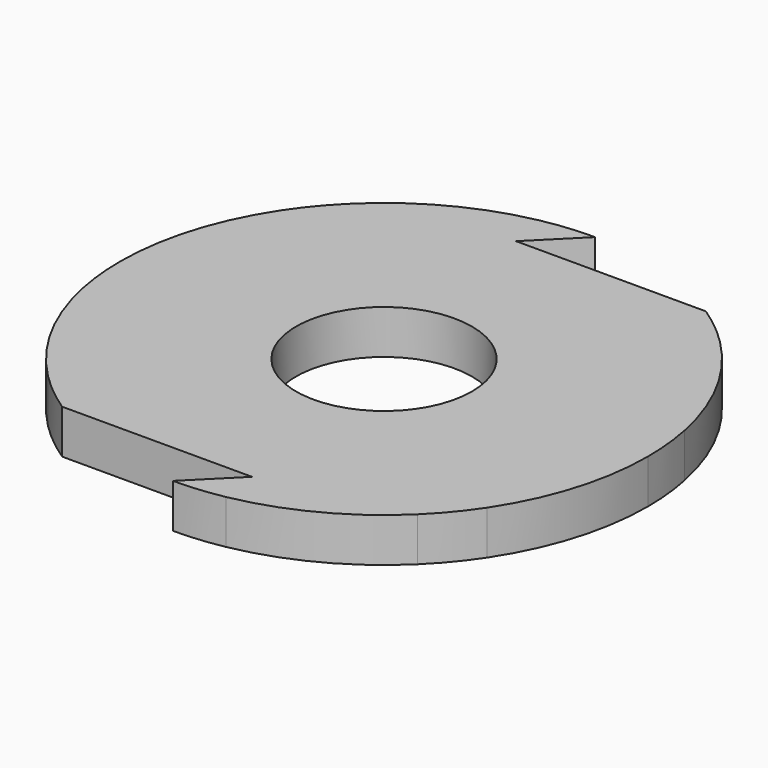
from build123d import *

# Parameters (mm, degrees)
F0_R     = 12.7
F1_DEPTH = 6.35


with BuildPart() as f1:
    # F0 (on Top) → F1 (new body)
    with BuildSketch(Plane.XY):
        with BuildLine():
            Line((22.45064, 22.45064), (37.34271, 7.55857))
            ThreePointArc((37.34271, 7.55857), (33.570952, 18.016692), (26.940768, 26.940768))
            Line((26.940768, 26.940768), (17.960512, 26.940768))
            Line((17.960512, 26.940768), (22.45064, 22.45064))
        make_face()
        with BuildLine():
            ThreePointArc((-37.34271, -7.55857), (-33.570952, -18.016692), (-26.940768, -26.940768))
            Line((-26.940768, -26.940768), (-17.960512, -26.940768))
            Line((-17.960512, -26.940768), (-22.45064, -22.45064))
            Line((-22.45064, -22.45064), (-37.34271, -7.55857))
        make_face()
        with BuildLine():
            ThreePointArc((7.159566, -37.421259), (17.657349, -33.761339), (26.651684, -27.226783))
            Line((26.651684, -27.226783), (26.747534, -18.247039))
            Line((26.747534, -18.247039), (22.209737, -22.688986))
            Line((22.209737, -22.688986), (7.159566, -37.421259))
        make_face()
        with BuildLine():
            Line((-22.45064, 22.45064), (-7.55857, 37.34271))
            ThreePointArc((-7.55857, 37.34271), (-18.016692, 33.570952), (-26.940768, 26.940768))
            Line((-26.940768, 26.940768), (-26.940768, 17.960512))
            Line((-26.940768, 17.960512), (-22.45064, 22.45064))
        make_face()
        with BuildLine():
            Line((31.75, 6.35), (38.1, 0))
            ThreePointArc((38.1, 0), (37.910205, 3.798206), (37.34271, 7.55857))
            Line((37.34271, 7.55857), (22.45064, 22.45064))
            Line((22.45064, 22.45064), (17.960512, 26.940768))
            Line((17.960512, 26.940768), (26.940768, 26.940768))
            ThreePointArc((26.940768, 26.940768), (24.120826, 29.4923), (21.060567, 31.75))
            Line((21.060567, 31.75), (0, 31.75))
            Line((0, 31.75), (-6.35, 31.75))
            Line((-6.35, 31.75), (0, 38.1))
            ThreePointArc((0, 38.1), (-3.798206, 37.910205), (-7.55857, 37.34271))
            Line((-7.55857, 37.34271), (-22.45064, 22.45064))
            Line((-22.45064, 22.45064), (-26.940768, 17.960512))
            Line((-26.940768, 17.960512), (-26.940768, 26.940768))
            ThreePointArc((-26.940768, 26.940768), (-29.4923, 24.120826), (-31.75, 21.060567))
            Line((-31.75, 21.060567), (-31.75, 0))
            Line((-31.75, 0), (-31.75, -6.35))
            Line((-31.75, -6.35), (-38.1, 0))
            ThreePointArc((-38.1, 0), (-37.910205, -3.798206), (-37.34271, -7.55857))
            Line((-37.34271, -7.55857), (-22.45064, -22.45064))
            Line((-22.45064, -22.45064), (-17.960512, -26.940768))
            Line((-17.960512, -26.940768), (-26.940768, -26.940768))
            ThreePointArc((-26.940768, -26.940768), (-24.120826, -29.4923), (-21.060567, -31.75))
            Line((-21.060567, -31.75), (0, -31.75))
            Line((0, -31.75), (6.35, -31.75))
            Line((6.35, -31.75), (0, -38.1))
            ThreePointArc((0, -38.1), (3.595834, -37.929935), (7.159566, -37.421259))
            Line((7.159566, -37.421259), (22.209737, -22.688986))
            Line((22.209737, -22.688986), (26.747534, -18.247039))
            Line((26.747534, -18.247039), (26.651684, -27.226783))
            ThreePointArc((26.651684, -27.226783), (29.363153, -24.277876), (31.75, -21.060567))
            Line((31.75, -21.060567), (31.75, 0))
            Line((31.75, 0), (31.75, 6.35))
        make_face()
        Circle(F0_R, mode=Mode.SUBTRACT)
        with BuildLine():
            ThreePointArc((31.75, -21.060567), (36.477973, -10.998523), (38.1, 0))
            Line((38.1, 0), (31.75, 6.35))
            Line((31.75, 6.35), (31.75, 0))
            Line((31.75, 0), (31.75, -21.060567))
        make_face()
        with BuildLine():
            Line((-31.75, 0), (-31.75, 21.060567))
            ThreePointArc((-31.75, 21.060567), (-36.477973, 10.998523), (-38.1, 0))
            Line((-38.1, 0), (-31.75, -6.35))
            Line((-31.75, -6.35), (-31.75, 0))
        make_face()
    extrude(amount=-F1_DEPTH)


solid = f1.part
